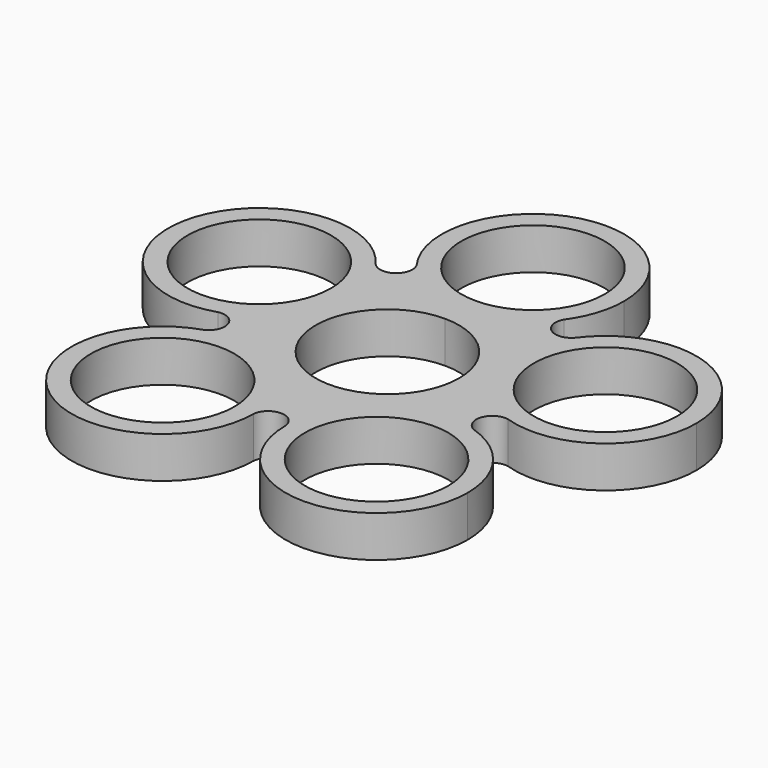
from build123d import *

# Parameters (mm, degrees)
F0_R     = 11.0109
F1_DEPTH = 6.35
F3_DEPTH = 6.35


with BuildPart() as f1:
    # F0 (on Top) → F1 (new body)
    with BuildSketch(Plane.XY):
        with BuildLine():
            ThreePointArc((-12.6025190653, 8.6339348228), (-40.3705251806, 10.8193243169), (-13.2862595435, 4.3169673779))
            ThreePointArc((-13.2862595435, 4.3169673779), (-12.7745129499, 6.4485453288), (-12.6025190653, 8.6339348228))
        make_face()
        with Locations((-26.5725190653, 8.6339348228)):
            Circle(F0_R, mode=Mode.SUBTRACT)
    extrude(amount=F1_DEPTH)



with BuildPart() as f1b:
    # F0 (on Top) → F1, piece 2 (new body)
    with BuildSketch(Plane.XY):
        with BuildLine():
            ThreePointArc((13.97, 27.94), (-9.8782817326, 37.8182817338), (-1.8e-09, 13.97))
            ThreePointArc((-1.8e-09, 13.97), (9.8782817326, 18.0617182662), (13.97, 27.94))
        make_face()
        with BuildLine():
            ThreePointArc((11.0109, 27.94), (7.785882057, 20.154117943), (0, 16.9291))
            ThreePointArc((0, 16.9291), (-7.785882057, 35.725882057), (11.0109, 27.94))
        make_face(mode=Mode.SUBTRACT)
    extrude(amount=F1_DEPTH)


with BuildPart() as f1c:
    # F0 (on Top) → F1, piece 3 (new body)
    with BuildSketch(Plane.XY):
        with BuildLine():
            ThreePointArc((40.5425190653, 8.6339348228), (24.387129585, 22.4319409404), (13.2862595349, 4.3169674044))
            ThreePointArc((13.2862595349, 4.3169674044), (28.7579085455, -5.1640712947), (40.5425190653, 8.6339348228))
        make_face()
        with Locations((26.5725190653, 8.6339348228)):
            Circle(F0_R, mode=Mode.SUBTRACT)
    extrude(amount=F1_DEPTH)


with BuildPart() as f1d:
    # F0 (on Top) → F1, piece 4 (new body)
    with BuildSketch(Plane.XY):
        with BuildLine():
            ThreePointArc((30.3927199491, -22.6039348228), (22.7649672257, -10.1565736775), (8.2113599659, -11.3019674177))
            ThreePointArc((8.2113599659, -11.3019674177), (10.0804726724, -35.0512959682), (30.3927199491, -22.6039348228))
        make_face()
        with Locations((16.4227199491, -22.6039348228)):
            Circle(F0_R, mode=Mode.SUBTRACT)
    extrude(amount=F1_DEPTH)


with BuildPart() as f1e:
    # F0 (on Top) → F1, piece 5 (new body)
    with BuildSketch(Plane.XY):
        with BuildLine():
            ThreePointArc((-2.4527199491, -22.6039348228), (-3.9753588409, -16.2616874733), (-8.2113600984, -11.3019673214))
            ThreePointArc((-8.2113600984, -11.3019673214), (-28.8700810572, -28.9461821724), (-2.4527199491, -22.6039348228))
        make_face()
        with Locations((-16.4227199491, -22.6039348228)):
            Circle(F0_R, mode=Mode.SUBTRACT)
    extrude(amount=F1_DEPTH)


with BuildPart() as f1f:
    # F0 (on Top) → F1, piece 6 (new body)
    with BuildSketch(Plane.XY):
        with BuildLine():
            ThreePointArc((13.2862595349, 4.3169674044), (8.2113599768, 11.3019674098), (-1.8e-09, 13.97))
            ThreePointArc((-1.8e-09, 13.97), (-8.2113599895, 11.3019674005), (-13.2862595435, 4.3169673779))
            ThreePointArc((-13.2862595435, 4.3169673779), (-13.2862595509, -4.3169673554), (-8.2113600984, -11.3019673214))
            ThreePointArc((-8.2113600984, -11.3019673214), (-8.19e-08, -13.97), (8.2113599659, -11.3019674177))
            ThreePointArc((8.2113599659, -11.3019674177), (12.4473611405, -6.3422472861), (13.97, 0))
            ThreePointArc((13.97, 0), (13.7980061187, 2.185389473), (13.2862595349, 4.3169674044))
        make_face()
        with BuildLine():
            ThreePointArc((0, 11.0109), (7.785882057, 7.785882057), (11.0109, 0))
            ThreePointArc((11.0109, 0), (-7.785882057, -7.785882057), (0, 11.0109))
        make_face(mode=Mode.SUBTRACT)
    extrude(amount=F1_DEPTH)


with BuildPart() as f1_1:
    add(f1.part)

    add(f1b.part)  # F3 merges F1b

    add(f1c.part)  # F3 merges F1c

    add(f1d.part)  # F3 merges F1d

    add(f1e.part)  # F3 merges F1e

    add(f1f.part)  # F3 merges F1f
    # F2 (on face) → F3 (join)
    with BuildSketch(Plane(origin=(0, 0, 0), x_dir=(1, 0, 0), z_dir=(0, 0, -1))):
        with BuildLine():
            ThreePointArc((2.4527199491, 22.6039348228), (0, 20.4182749221), (-2.4527199491, 22.6039348228))
            ThreePointArc((-2.4527199491, 22.6039348228), (-3.9753588004, 16.2616875527), (-8.2113599542, 11.3019674262))
            ThreePointArc((-8.2113599542, 11.3019674262), (-1.7e-08, 13.97), (8.2113599266, 11.3019674462))
            ThreePointArc((8.2113599266, 11.3019674462), (3.9753587927, 16.2616875678), (2.4527199491, 22.6039348228))
        make_face()
        with BuildLine():
            ThreePointArc((-8.2113599542, 11.3019674262), (-14.23733046, 8.8059287067), (-20.7396873605, 9.3176752902))
            ThreePointArc((-20.7396873605, 9.3176752902), (-19.4189334161, 6.3095939467), (-22.2555516539, 4.6523247098))
            ThreePointArc((-22.2555516539, 4.6523247098), (-16.6942373027, 1.2443468809), (-13.286259507, -4.3169674905))
            ThreePointArc((-13.286259507, -4.3169674905), (-13.2862595416, 4.3169673838), (-8.2113599542, 11.3019674262))
        make_face()
        with BuildLine():
            ThreePointArc((-7.22e-08, -13.97), (-8.2113599701, -11.3019674146), (-13.286259507, -4.3169674905))
            ThreePointArc((-13.286259507, -4.3169674905), (-12.7745129407, -6.4485453873), (-12.6025190653, -8.6339348228))
            ThreePointArc((-12.6025190653, -8.6339348228), (-13.2862595326, -12.9509022343), (-15.2705516539, -16.8452947974))
            ThreePointArc((-15.2705516539, -16.8452947974), (-12.0015608764, -16.5187314078), (-11.3019674114, -19.7286400255))
            ThreePointArc((-11.3019674114, -19.7286400255), (-6.3422473135, -15.4926388735), (-7.22e-08, -13.97))
        make_face()
        with BuildLine():
            ThreePointArc((13.2862595349, -4.3169674044), (8.2113599483, -11.3019674305), (-7.22e-08, -13.97))
            ThreePointArc((-7.22e-08, -13.97), (6.3422472492, -15.4926388407), (11.3019674114, -19.7286400255))
            ThreePointArc((11.3019674114, -19.7286400255), (12.0015608764, -16.5187314078), (15.2705516539, -16.8452947974))
            ThreePointArc((15.2705516539, -16.8452947974), (12.7745129466, -10.8193242958), (13.2862595349, -4.3169674044))
        make_face()
        with BuildLine():
            ThreePointArc((20.7396873605, 9.3176752902), (14.2373304432, 8.8059287094), (8.2113599266, 11.3019674462))
            ThreePointArc((8.2113599266, 11.3019674462), (12.4473611295, 6.3422473077), (13.97, 0))
            ThreePointArc((13.97, 0), (13.7980061187, -2.185389473), (13.2862595349, -4.3169674044))
            ThreePointArc((13.2862595349, -4.3169674044), (16.6942373347, 1.2443469129), (22.2555516539, 4.6523247098))
            ThreePointArc((22.2555516539, 4.6523247098), (19.4189334161, 6.3095939467), (20.7396873605, 9.3176752902))
        make_face()
    extrude(amount=-F3_DEPTH)


solid = f1_1.part
